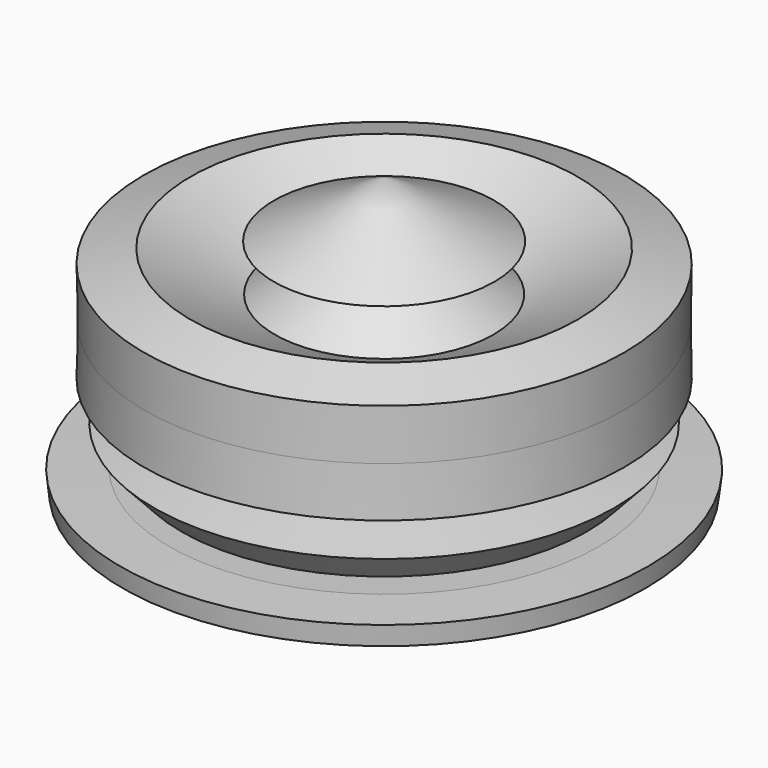
from build123d import *


with BuildPart() as f1:
    # F0 (on Front) → F1 (revolve)
    with BuildSketch(Plane.XZ):
        Polygon((29.873788, 61.614744), (0, 76.759115), (0, 0), (70.9503, 1.867101), (71.572691, 7.260978), (58.295429, 7.675901), (39.209366, 7.053524), (27.591765, 7.675901), (14.521956, 11.410132), (11.617556, 19.293495), (39.001912, 13.277248), (54.976106, 10.165378), (62.444568, 18.25621), (46.26292, 21.16061), (49.997151, 29.04398), (65.141499, 28.836526), (64.934045, 42.321235), (65.141499, 56.220867), (52.486628, 59.95509), (29.666334, 48.959866), (10.787725, 61.614744), align=None)
    revolve(axis=Axis((0, 0, 38.379557), (0, 0, 1)))


solid = f1.part
